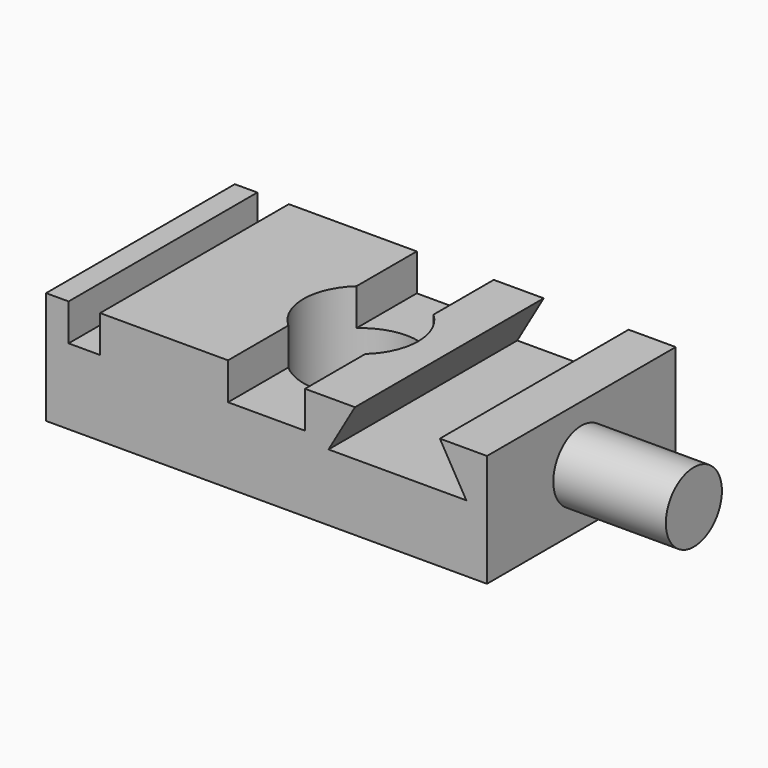
from build123d import *

# Parameters (mm, degrees)
F0_W     = 97.93637
F0_H     = 52.404548
F0_R     = 12.7464
F1_DEPTH = 25
F2_W     = 7
F2_H     = 52.404548
F3_DEPTH = 8.2
F5_DEPTH = 55
F6_R     = 7.783251
F7_DEPTH = 25


with BuildPart() as f1:
    # F0 (on Top) → F1 (new body)
    with BuildSketch(Plane.XY):
        Rectangle(F0_W, F0_H)
        Circle(F0_R, mode=Mode.SUBTRACT)
    extrude(amount=F1_DEPTH)

    # F2 (on face) → F3 (cut)
    with BuildSketch(Plane.XY.offset(25)):
        with Locations((-40.468185, 0)):
            Rectangle(F2_W, F2_H)
        with BuildLine():
            Line((8.552118, 26.202274), (-8.552118, 26.202274))
            Line((-8.552118, 26.202274), (-8.552118, 9.45156))
            ThreePointArc((-8.552118, 9.45156), (0, 12.7464), (8.552118, 9.45156))
            Line((8.552118, 9.45156), (8.552118, 26.202274))
        make_face()
        with BuildLine():
            Line((-8.552118, -9.45156), (-8.552118, -26.202274))
            Line((-8.552118, -26.202274), (8.552118, -26.202274))
            Line((8.552118, -26.202274), (8.552118, -9.45156))
            ThreePointArc((8.552118, -9.45156), (0, -12.7464), (-8.552118, -9.45156))
        make_face()
    extrude(amount=-F3_DEPTH, mode=Mode.SUBTRACT)

    # F4 (on face) → F5 (cut)
    with BuildSketch(Plane.XZ.offset(26.202274)):
        Polygon((38.504515, 25), (19.642172, 25), (13.772883, 14.834092), (44.373804, 14.834092), align=None)
    extrude(amount=-F5_DEPTH, mode=Mode.SUBTRACT)

    # F6 (on face) → F7 (join)
    with BuildSketch(Plane.YZ.offset(48.968185)):
        with Locations((0, 12.5)):
            Circle(F6_R)
    extrude(amount=F7_DEPTH)


solid = f1.part
